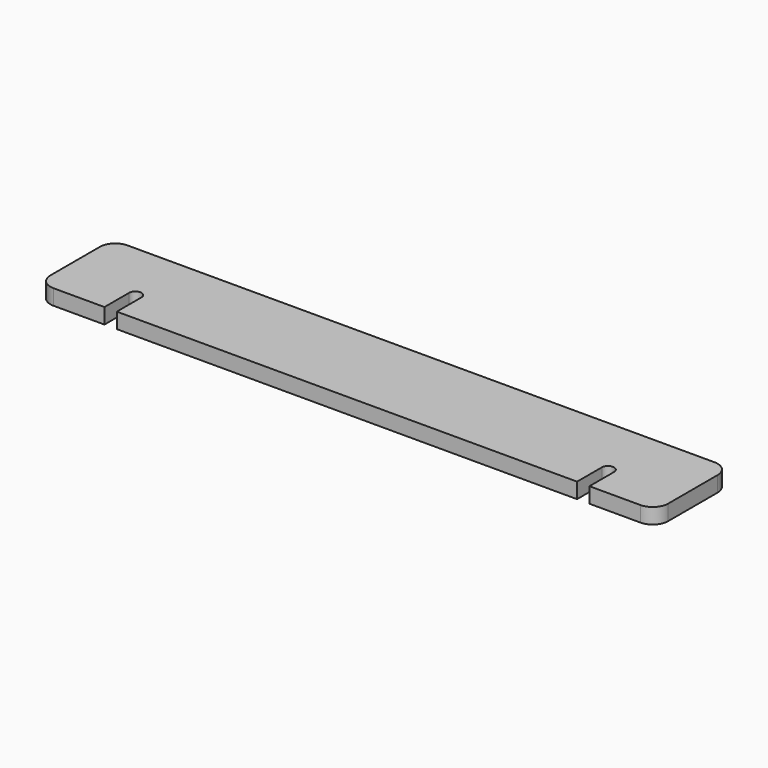
from build123d import *

# Parameters (mm, degrees)
F1_DEPTH = 5


with BuildPart() as f1:
    # F0 (on Top) → F1 (new body)
    with BuildSketch(Plane.XY):
        with BuildLine():
            Line((95, 15), (-95, 15))
            ThreePointArc((-95, 15), (-98.535534, 13.535534), (-100, 10))
            Line((-100, 10), (-100, -10))
            ThreePointArc((-100, -10), (-98.535534, -13.535534), (-95, -15))
            Line((-95, -15), (-78.5, -15))
            Line((-78.5, -15), (-78.5, -5))
            ThreePointArc((-78.5, -5), (-76.5, -3), (-74.5, -5))
            Line((-74.5, -5), (-74.5, -15))
            Line((-74.5, -15), (74.5, -15))
            Line((74.5, -15), (74.5, -5))
            ThreePointArc((74.5, -5), (76.5, -3), (78.5, -5))
            Line((78.5, -5), (78.5, -15))
            Line((78.5, -15), (95, -15))
            ThreePointArc((95, -15), (98.535534, -13.535534), (100, -10))
            Line((100, -10), (100, 10))
            ThreePointArc((100, 10), (98.535534, 13.535534), (95, 15))
        make_face()
    extrude(amount=F1_DEPTH)


solid = f1.part
